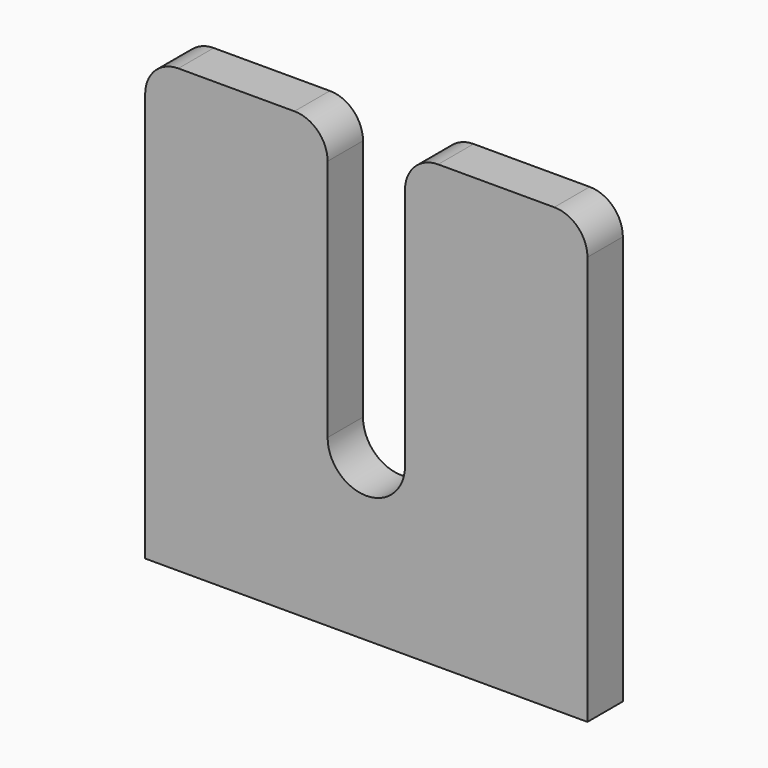
from build123d import *

# Parameters (mm, degrees)
F1_DEPTH = 4


with BuildPart() as f1:
    # F0 (on Front) → F1 (new body)
    with BuildSketch(Plane.XZ):
        with BuildLine():
            Line((-20, 17), (-20, -20))
            Line((-20, -20), (20, -20))
            Line((20, -20), (20, 17))
            ThreePointArc((20, 17), (19.12132, 19.12132), (17, 20))
            Line((17, 20), (6.5, 20))
            ThreePointArc((6.5, 20), (4.37868, 19.12132), (3.5, 17))
            Line((3.5, 17), (3.5, -5))
            ThreePointArc((3.5, -5), (0, -8.5), (-3.5, -5))
            Line((-3.5, -5), (-3.5, 17))
            ThreePointArc((-3.5, 17), (-4.37868, 19.12132), (-6.5, 20))
            Line((-6.5, 20), (-17, 20))
            ThreePointArc((-17, 20), (-19.12132, 19.12132), (-20, 17))
        make_face()
    extrude(amount=F1_DEPTH)


solid = f1.part
